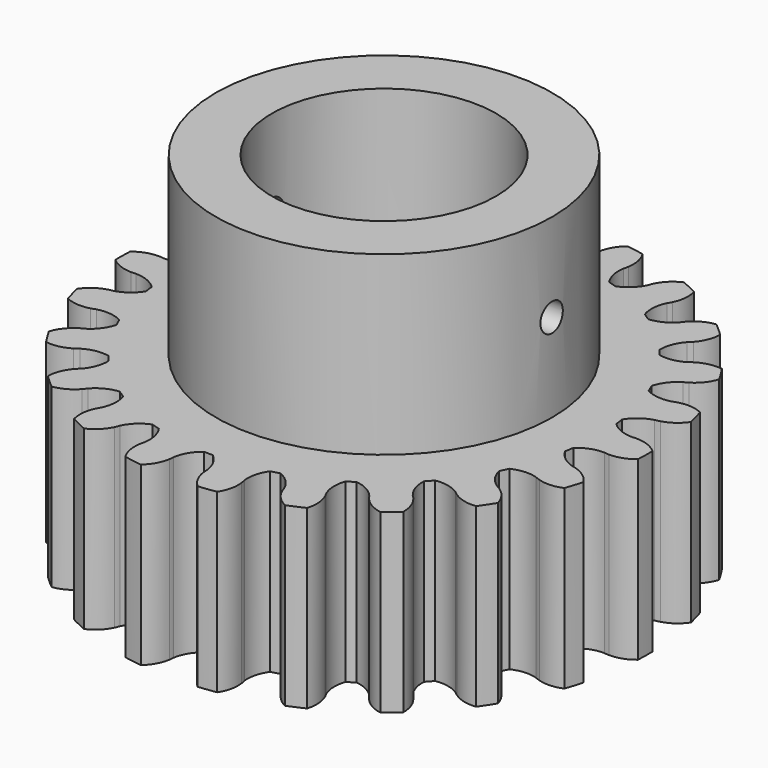
from build123d import *

# Parameters (mm, degrees)
F0_R          = 30
F0_R_2        = 12.7
F1_DEPTH      = 20
F3_DEPTH      = 25
F4_COUNT      = 22
F5_R          = 19.05
F5_R_2        = 12.7
F6_DEPTH      = 20
F7_R          = 1.5875
F8_DEPTH      = 25
F8_DEPTH_BACK = 25


with BuildPart() as f1:
    # F0 (on Top) → F1 (new body)
    with BuildSketch(Plane.XY):
        Circle(F0_R)
        Circle(F0_R_2, mode=Mode.SUBTRACT)
    extrude(amount=F1_DEPTH)

    # F2 (on face) → F3 (cut)
    with BuildSketch(Plane.XY.offset(20)):
        with BuildLine():
            ThreePointArc((2.4048237453, 27.3946495279), (2.8605035823, 28.6996660885), (3.7401440318, 29.7659423271))
            ThreePointArc((3.7401440318, 29.7659423271), (0.4829591999, 29.9961122549), (-2.7799472127, 29.8709205331))
            ThreePointArc((-2.7799472127, 29.8709205331), (-1.9350894549, 28.7768786205), (-1.52165835, 27.4578687422))
            ThreePointArc((-1.52165835, 27.4578687422), (-1.4961365038, 27.1784663713), (-1.4906290787, 26.8979548426))
            ThreePointArc((-1.4906290787, 26.8979548426), (-1.0375627172, 25.5048787065), (-0.1054744051, 24.3747717969))
            ThreePointArc((-0.1054744051, 24.3747717969), (0.3924043499, 24.3718412071), (0.890119383, 24.3587420136))
            ThreePointArc((0.890119383, 24.3587420136), (1.8581062167, 25.458256333), (2.355785189, 26.8360247784))
            ThreePointArc((2.355785189, 26.8360247784), (2.3703202973, 27.1162136078), (2.4048237453, 27.3946495279))
        make_face()
    f3 = extrude(amount=-F3_DEPTH, mode=Mode.SUBTRACT)

    # F4: F3 ×22 about axis
    f4_axis = Axis((0, 0, 20), (0, 0, 1))
    for i in range(1, F4_COUNT):
        add(f3.rotate(f4_axis, i * 360 / F4_COUNT), mode=Mode.SUBTRACT)

    # F5 (on face) → F6 (join)
    with BuildSketch(Plane.XY.offset(20)):
        Circle(F5_R)
        Circle(F5_R_2, mode=Mode.SUBTRACT)
    extrude(amount=F6_DEPTH)

    # F7 (on Right) → F8 (cut, two sides)
    with BuildSketch(Plane.YZ) as f8_sk:
        with Locations((0, 30)):
            Circle(F7_R)
    extrude(amount=-F8_DEPTH, mode=Mode.SUBTRACT)
    extrude(f8_sk.sketch, amount=F8_DEPTH_BACK, mode=Mode.SUBTRACT)


solid = f1.part
